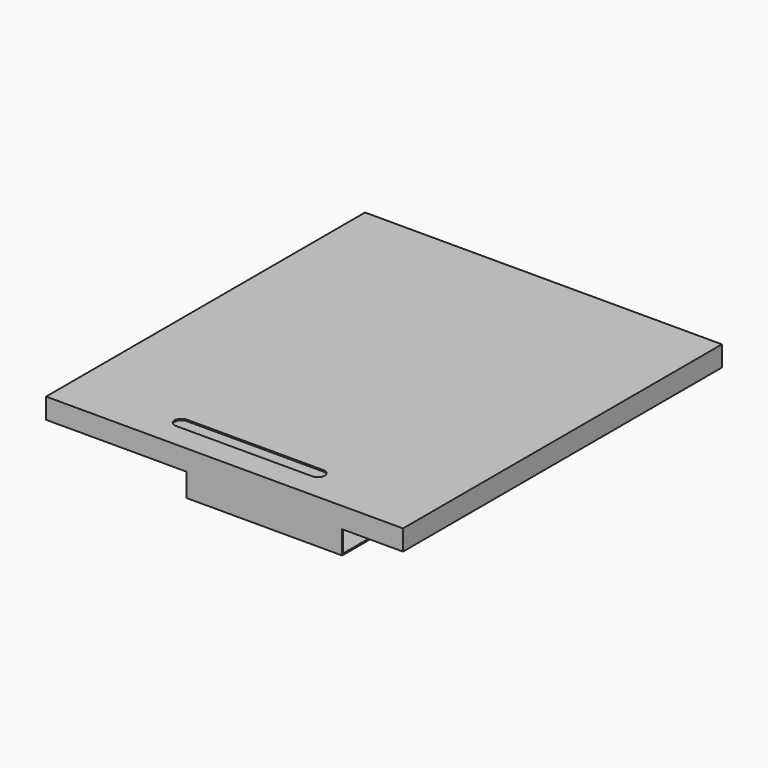
from build123d import *

# Parameters (mm, degrees)
SKETCH_W     = 26.16
SKETCH_H     = 29.22
PAD_DEPTH    = 1.5
SKETCH001_W  = 23.4
SKETCH001_H  = 23.4
PAD001_DEPTH = 1
SKETCH002_W  = 11.4
SKETCH002_H  = 0.1
PAD002_DEPTH = 1.6
PAD003_DEPTH = 0.1
POCKET_DEPTH = 0.1


with BuildPart() as part:
    # Sketch → Pad (new body)
    with BuildSketch(Plane.XY):
        Rectangle(SKETCH_W, SKETCH_H)
    extrude(amount=PAD_DEPTH)

    # Sketch001 (on Face6 of Pad) → Pad001 (join)
    with BuildSketch(Plane.XY.offset(1.5)):
        with Locations((0, 1.91)):
            Rectangle(SKETCH001_W, SKETCH001_H)
    extrude(amount=-PAD001_DEPTH)

    # Sketch002 (on Face4 of Pad001) → Pad002 (join)
    with BuildSketch(Plane(origin=(0, 0, 0), x_dir=(1, 0, 0), z_dir=(0, 0, -1))):
        with Locations((2.92, 14.56)):
            Rectangle(SKETCH002_W, SKETCH002_H)
    extrude(amount=PAD002_DEPTH)

    # Sketch003 (on Face12 of Pad002) → Pad003 (join)
    with BuildSketch(Plane(origin=(0, 0, -1.6), x_dir=(1, 0, 0), z_dir=(0, 0, -1))):
        with BuildLine():
            Line((-2.78, 14.61), (8.62, 14.61))
            Line((8.62, 14.61), (8.62, 4.248609))
            ThreePointArc((8.12, 3.748609), (8.473553, 3.895055), (8.62, 4.248609))
            Line((8.12, 3.748609), (-2.28, 3.748609))
            ThreePointArc((-2.78, 4.248609), (-2.633553, 3.895055), (-2.28, 3.748609))
            Line((-2.78, 4.248609), (-2.78, 14.61))
        make_face()
    extrude(amount=PAD003_DEPTH)

    # Sketch004 (on Face5 of Pad003) → Pocket (cut)
    with BuildSketch(Plane.XY.offset(1.5)):
        with BuildLine():
            ThreePointArc((-5, -11.81), (-5.5, -12.31), (-5, -12.81))
            Line((-5, -12.81), (5, -12.81))
            ThreePointArc((5, -12.81), (5.5, -12.31), (5, -11.81))
            Line((5, -11.81), (-5, -11.81))
        make_face()
    extrude(amount=-POCKET_DEPTH, mode=Mode.SUBTRACT)


solid = part.part
